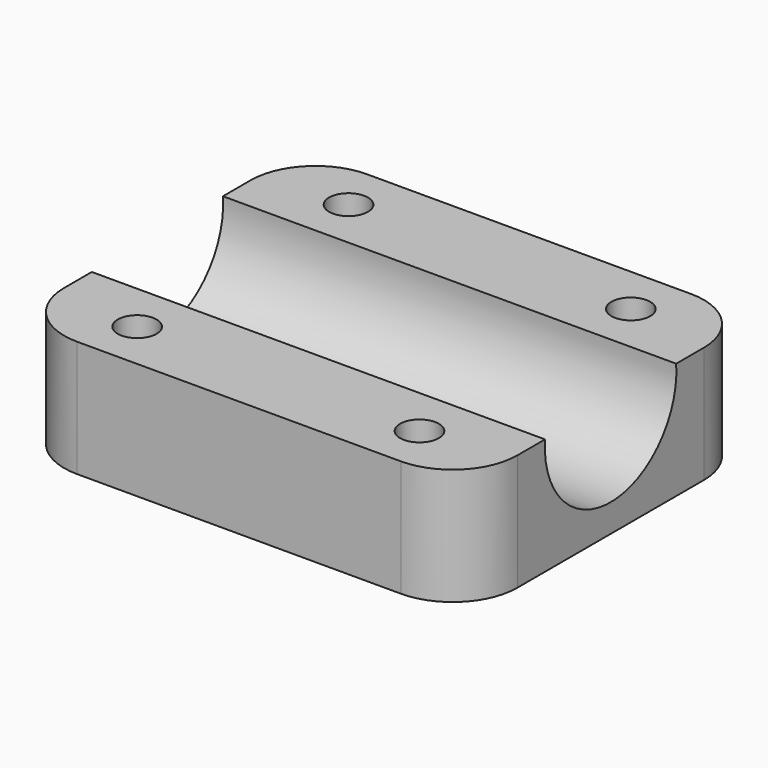
from build123d import *

# Parameters (mm, degrees)
F0_W     = 35
F0_H     = 28
F1_DEPTH = 14
F3_D     = 12.7
F4_DEPTH = 6.5
F5_D     = 3
F6_DEPTH = 1.5
F7_R     = 5


with BuildPart() as f1:
    # F0 (on Top) → F1 (new body)
    with BuildSketch(Plane.XY):
        Rectangle(F0_W, F0_H)
    extrude(amount=F1_DEPTH)

    # F3 (through all)
    with Locations(Plane(origin=(-17.5, 0, 0), x_dir=(0, -1, 0), z_dir=(-1, 0, 0))):
        with Locations((0, 7)):
            Hole(F3_D / 2)

    # F4 (cut): a face of the model
    f4_faces = [f1.faces().sort_by_distance(p)[0] for p in [
        (0, 0, 14),
    ]]
    extrude(f4_faces, amount=-F4_DEPTH, mode=Mode.SUBTRACT)

    # F5 (through all)
    with Locations(Plane(origin=(0, 0, 0), x_dir=(1, 0, 0), z_dir=(0, 0, -1))):
        with Locations((10.9, -10.2), (-10.9, -10.2), (-10.9, 10.2), (10.9, 10.2)):
            Hole(F5_D / 2)

    # F6 (add): a face of the model
    f6_faces = [f1.faces().sort_by_distance(p)[0] for p in [
        (0, 0, 0),
    ]]
    extrude(f6_faces, amount=F6_DEPTH)

    # F7
    f7_edges = [f1.edges().sort_by_distance(p)[0] for p in [
        (-17.5, -14, 3),
        (-17.5, 14, 3),
        (17.5, 14, 3),
        (17.5, -14, 3),
    ]]
    fillet(f7_edges, radius=F7_R)


solid = f1.part
